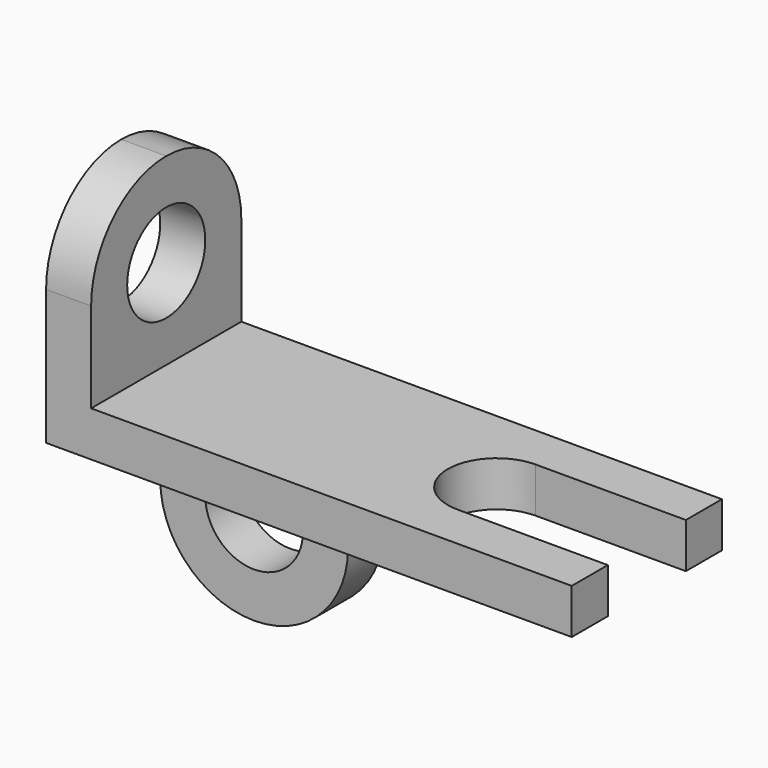
from build123d import *

# Parameters (mm, degrees)
F0_W      = 64
F0_H      = 6
F1_DEPTH  = 25
F3_DEPTH  = 10.9
F4_W      = 6
F4_H      = 24.5
F4_H_2    = 6
F5_DEPTH  = 25
F6_R      = 6.5
F7_DEPTH  = 10
F8_W      = 25
F8_H      = 24.5
F9_DEPTH  = 6
F10_R     = 6.5
F11_DEPTH = 25


with BuildPart() as f1:
    # F0 (on Front) → F1 (new body)
    with BuildSketch(Plane.XZ):
        Rectangle(F0_W, F0_H)
    extrude(amount=F1_DEPTH)

    # F2 (on face) → F3 (cut)
    with BuildSketch(Plane.XY.offset(3)):
        with BuildLine():
            Line((12, -19), (12, -6))
            ThreePointArc((12, -6), (5.5, -12.5), (12, -19))
        make_face()
        with BuildLine():
            ThreePointArc((18.5, -12.5), (16.5961940777, -7.9038059223), (12, -6))
            Line((12, -6), (12, -19))
            ThreePointArc((12, -19), (16.5961940777, -17.0961940777), (18.5, -12.5))
        make_face()
        with BuildLine():
            Line((32, -19), (32, -6))
            Line((32, -6), (12, -6))
            ThreePointArc((12, -6), (16.5961940777, -7.9038059223), (18.5, -12.5))
            ThreePointArc((18.5, -12.5), (16.5961940777, -17.0961940777), (12, -19))
            Line((12, -19), (32, -19))
        make_face()
    extrude(amount=-F3_DEPTH, mode=Mode.SUBTRACT)

    # F4 (on Front) → F5 (join)
    with BuildSketch(Plane.XZ):
        with Locations((-35, 15.25)):
            Rectangle(F4_W, F4_H)
        with Locations((-35, 0)):
            Rectangle(F4_W, F4_H_2)
    extrude(amount=F5_DEPTH)

    # F6 (on face) → F7 (cut)
    with BuildSketch(Plane(origin=(-38, 0, 0), x_dir=(0, -1, 0), z_dir=(-1, 0, 0))):
        with BuildLine():
            ThreePointArc((0, 15), (3.6611652352, 23.8388347648), (12.5, 27.5))
            Line((12.5, 27.5), (0, 27.5))
            Line((0, 27.5), (0, 15))
        make_face()
        with BuildLine():
            ThreePointArc((12.5, 27.5), (21.3388347648, 23.8388347648), (25, 15))
            Line((25, 15), (25, 27.5))
            Line((25, 27.5), (12.5, 27.5))
        make_face()
        with Locations((12.5, 15)):
            Circle(F6_R)
    extrude(amount=-F7_DEPTH, mode=Mode.SUBTRACT)

    # F8 (on face) → F9 (join)
    with BuildSketch(Plane(origin=(0, 0, 0), x_dir=(-1, 0, 0), z_dir=(0, 1, 0))):
        with Locations((25.5, -15.25)):
            Rectangle(F8_W, F8_H)
    extrude(amount=-F9_DEPTH)

    # F10 (on face) → F11 (cut)
    with BuildSketch(Plane(origin=(0, 0, 0), x_dir=(-1, 0, 0), z_dir=(0, 1, 0))):
        with BuildLine():
            ThreePointArc((25.5, -27.5), (16.6611652352, -23.8388347648), (13, -15))
            Line((13, -15), (13, -27.5))
            Line((13, -27.5), (25.5, -27.5))
        make_face()
        with BuildLine():
            Line((38, -27.5), (38, -15))
            ThreePointArc((38, -15), (34.3388347648, -23.8388347648), (25.5, -27.5))
            Line((25.5, -27.5), (38, -27.5))
        make_face()
        with Locations((25.5, -15)):
            Circle(F10_R)
    extrude(amount=-F11_DEPTH, mode=Mode.SUBTRACT)


solid = f1.part
